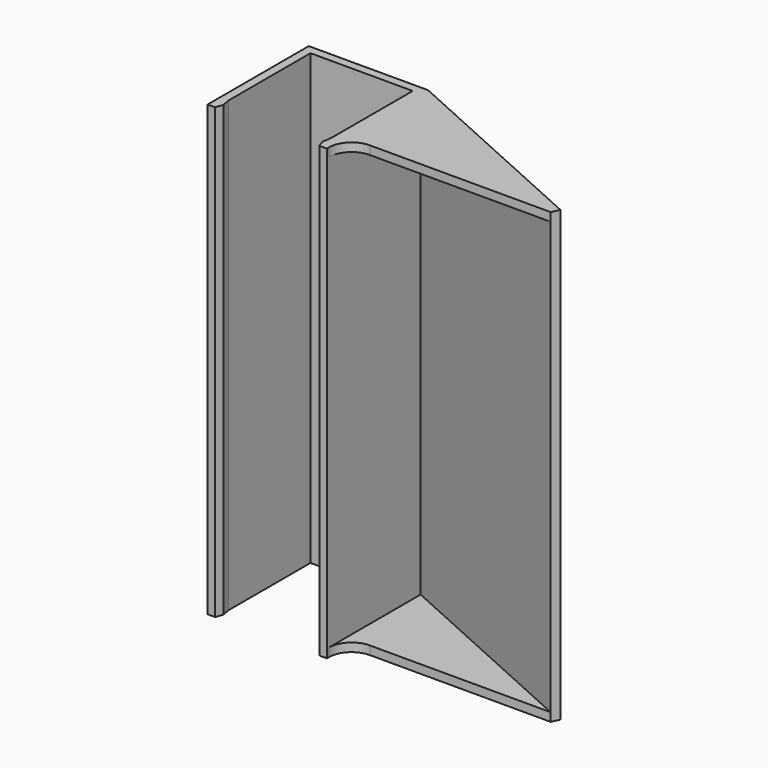
from build123d import *

# Parameters (mm, degrees)
F1_DEPTH = 79
F4_DEPTH = 1.5
F5_DEPTH = 1.5


with BuildPart() as f1:
    # F0 (on Top) → F1 (new body)
    with BuildSketch(Plane.XY):
        Polygon((-9, -9), (-9, 9), (9, 9), (9, -9), (8.7474873289, -10.5), (9.1674439609, -11.7616653442), (10.5, -11.7616653442), (10.5, -11.3207034852), (10.5, 8.8543308896), (46.3423287091, -7.3207034852), (46.9593341512, -5.9534784545), (10.5, 10.5), (-10.5, 10.5), (-10.5, -11.7616653442), (-9.1674439609, -11.7616653442), (-8.7474873289, -10.5), align=None)
    extrude(amount=F1_DEPTH)

    # F3 (on offset) → F4 (join)
    with BuildSketch(Plane.XY.offset(79)):
        with BuildLine():
            Line((-9, -9), (-9, 9))
            Line((-9, 9), (9, 9))
            Line((9, 9), (9, -9))
            Line((9, -9), (8.7474873289, -10.5))
            Line((8.7474873289, -10.5), (9.1674439609, -11.7616653442))
            Line((9.1674439609, -11.7616653442), (10.5, -11.7616653442))
            Line((10.5, -11.7616653442), (10.5, -11.3207034852))
            ThreePointArc((10.5, -11.3207034852), (11.6715728753, -8.4922763604), (14.5, -7.3207034852))
            Line((14.5, -7.3207034852), (46.3423287091, -7.3207034852))
            Line((46.3423287091, -7.3207034852), (46.9593341512, -5.9534784545))
            Line((46.9593341512, -5.9534784545), (10.5, 10.5))
            Line((10.5, 10.5), (-10.5, 10.5))
            Line((-10.5, 10.5), (-10.5, -11.7616653442))
            Line((-10.5, -11.7616653442), (-9.1674439609, -11.7616653442))
            Line((-9.1674439609, -11.7616653442), (-8.7474873289, -10.5))
            Line((-8.7474873289, -10.5), (-9, -9))
        make_face()
    extrude(amount=-F4_DEPTH)

    # F0 (on Top) → F5 (join)
    with BuildSketch(Plane.XY):
        with BuildLine():
            Line((10.5, 8.8543308896), (10.5, -11.3207034852))
            ThreePointArc((10.5, -11.3207034852), (11.6715728753, -8.4922763604), (14.5, -7.3207034852))
            Line((14.5, -7.3207034852), (46.3423287091, -7.3207034852))
            Line((46.3423287091, -7.3207034852), (10.5, 8.8543308896))
        make_face()
    extrude(amount=F5_DEPTH)


solid = f1.part
